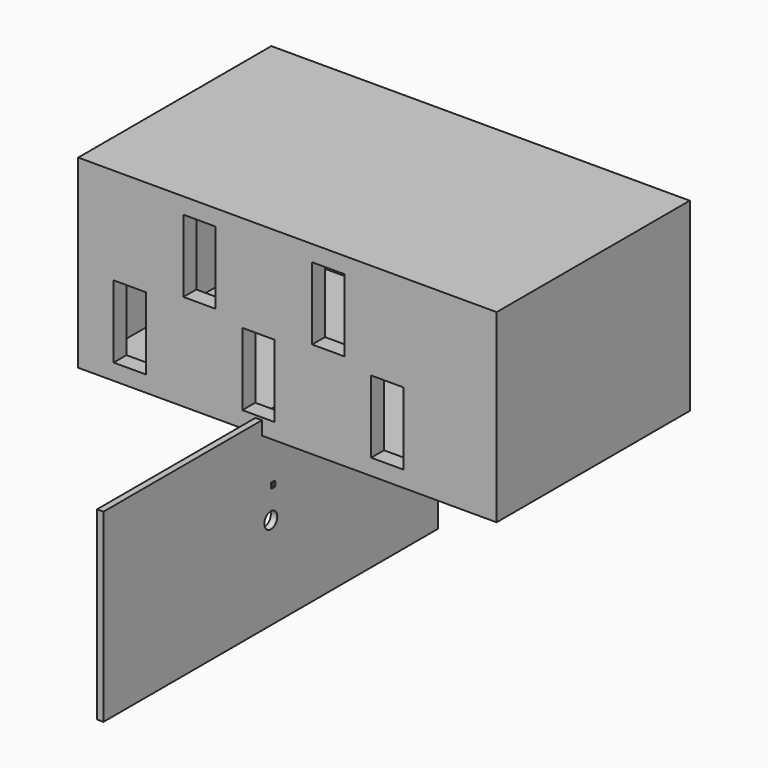
from build123d import *

# Parameters (mm, degrees)
F0_R      = 2.5
F1_DEPTH  = 3
F2_DEPTH  = 2.5
F3_W      = 260
F3_H      = 115
F4_DEPTH  = 10
F5_W      = 20
F5_H      = 45
F6_DEPTH  = 12.501
F7_W      = 260
F7_H      = 115
F7_W_2    = 252
F7_H_2    = 107
F8_DEPTH  = 150
F9_W      = 260
F9_H      = 115
F10_DEPTH = 4
F12_D     = 10
F14_DEPTH = 4
F15_W     = 50
F15_H     = 4
F16_DEPTH = 25
F17_D     = 30


with BuildPart() as f1:
    # F0 (on Front) → F1 (new body)
    with BuildSketch(Plane.XZ):
        with BuildLine():
            ThreePointArc((3.9321115141, -0.7192696016), (3.9810109696, -0.3611113113), (3.9973553406, 0))
            ThreePointArc((3.9973553406, 0), (3.9888435527, 0.2607236687), (3.9633444381, 0.5203369911))
            ThreePointArc((3.9633444381, 0.5203369911), (3.9626392257, 0.5256805935), (3.9619268087, 0.5310232401))
            ThreePointArc((3.9619268087, 0.5310232401), (3.8316179988, 1.1391019405), (3.6085715811, 1.719610672))
            ThreePointArc((3.6085715811, 1.719610672), (3.6062496203, 1.7244748172), (3.6039211029, 1.7293358272))
            ThreePointArc((3.6039211029, 1.7293358272), (3.2920834078, 2.2673854008), (2.9005665954, 2.750556879))
            ThreePointArc((2.9005665954, 2.750556879), (2.8968551759, 2.7544654307), (2.8931384896, 2.7583689745))
            ThreePointArc((2.8931384896, 2.7583689745), (2.4302967555, 3.1737213803), (1.9086339419, 3.5122594146))
            ThreePointArc((1.9086339419, 3.5122594146), (1.9038963633, 3.5148297764), (1.8991553232, 3.5173937479))
            ThreePointArc((1.8991553232, 3.5173937479), (1.3306157239, 3.7693913984), (0.7298708999, 3.9301575272))
            ThreePointArc((0.7298708999, 3.9301575272), (0.7245709094, 3.9311380943), (0.7192696016, 3.9321115141))
            ThreePointArc((0.7192696016, 3.9321115141), (0.1006847544, 3.9960871236), (-0.5203369911, 3.9633444381))
            ThreePointArc((-0.5203369911, 3.9633444381), (-0.5256805935, 3.9626392257), (-0.5310232401, 3.9619268087))
            ThreePointArc((-0.5310232401, 3.9619268087), (-1.1391019405, 3.8316179988), (-1.719610672, 3.6085715811))
            ThreePointArc((-1.719610672, 3.6085715811), (-1.7244748172, 3.6062496203), (-1.7293358272, 3.6039211029))
            ThreePointArc((-1.7293358272, 3.6039211029), (-2.2673854008, 3.2920834078), (-2.750556879, 2.9005665954))
            ThreePointArc((-2.750556879, 2.9005665954), (-2.7544654307, 2.8968551759), (-2.7583689745, 2.8931384896))
            ThreePointArc((-2.7583689745, 2.8931384896), (-3.1737213803, 2.4302967555), (-3.5122594146, 1.9086339419))
            ThreePointArc((-3.5122594146, 1.9086339419), (-3.5148297764, 1.9038963633), (-3.5173937479, 1.8991553232))
            ThreePointArc((-3.5173937479, 1.8991553232), (-3.7693913984, 1.3306157239), (-3.9301575272, 0.7298708999))
            ThreePointArc((-3.9301575272, 0.7298708999), (-3.9311380943, 0.7245709094), (-3.9321115141, 0.7192696016))
            ThreePointArc((-3.9321115141, 0.7192696016), (-3.9960871236, 0.1006847544), (-3.9633444381, -0.5203369911))
            ThreePointArc((-3.9633444381, -0.5203369911), (-3.9626392257, -0.5256805935), (-3.9619268087, -0.5310232401))
            ThreePointArc((-3.9619268087, -0.5310232401), (-3.8316179988, -1.1391019405), (-3.6085715811, -1.719610672))
            ThreePointArc((-3.6085715811, -1.719610672), (-3.6062496203, -1.7244748172), (-3.6039211029, -1.7293358272))
            ThreePointArc((-3.6039211029, -1.7293358272), (-3.2920834078, -2.2673854008), (-2.9005665954, -2.750556879))
            ThreePointArc((-2.9005665954, -2.750556879), (-2.8968551759, -2.7544654307), (-2.8931384896, -2.7583689745))
            ThreePointArc((-2.8931384896, -2.7583689745), (-2.4302967555, -3.1737213803), (-1.9086339419, -3.5122594146))
            ThreePointArc((-1.9086339419, -3.5122594146), (-1.9038963633, -3.5148297764), (-1.8991553232, -3.5173937479))
            ThreePointArc((-1.8991553232, -3.5173937479), (-1.3306157239, -3.7693913984), (-0.7298708999, -3.9301575272))
            ThreePointArc((-0.7298708999, -3.9301575272), (-0.7245709094, -3.9311380943), (-0.7192696016, -3.9321115141))
            ThreePointArc((-0.7192696016, -3.9321115141), (-0.1006847544, -3.9960871236), (0.5203369911, -3.9633444381))
            ThreePointArc((0.5203369911, -3.9633444381), (0.5256805935, -3.9626392257), (0.5310232401, -3.9619268087))
            ThreePointArc((0.5310232401, -3.9619268087), (1.1391019405, -3.8316179988), (1.719610672, -3.6085715811))
            ThreePointArc((1.719610672, -3.6085715811), (1.7244748172, -3.6062496203), (1.7293358272, -3.6039211029))
            ThreePointArc((1.7293358272, -3.6039211029), (2.2673854008, -3.2920834078), (2.750556879, -2.9005665954))
            ThreePointArc((2.750556879, -2.9005665954), (2.7544654307, -2.8968551759), (2.7583689745, -2.8931384896))
            ThreePointArc((2.7583689745, -2.8931384896), (3.1737213803, -2.4302967555), (3.5122594146, -1.9086339419))
            ThreePointArc((3.5122594146, -1.9086339419), (3.5148297764, -1.9038963633), (3.5173937479, -1.8991553232))
            ThreePointArc((3.5173937479, -1.8991553232), (3.7693913984, -1.3306157239), (3.9301575272, -0.7298708999))
            ThreePointArc((3.9301575272, -0.7298708999), (3.9311380943, -0.7245709094), (3.9321115141, -0.7192696016))
        make_face()
        Circle(F0_R, mode=Mode.SUBTRACT)
        with BuildLine():
            ThreePointArc((3.9633444381, 0.5203369911), (3.9888435527, 0.2607236687), (3.9973553406, 0))
            ThreePointArc((3.9973553406, 0), (3.9810109696, -0.3611113113), (3.9321115141, -0.7192696016))
            Line((3.9321115141, -0.7192696016), (4.73208086, -0.1192287316))
            Line((4.73208086, -0.1192287316), (3.9633444381, 0.5203369911))
        make_face()
        with BuildLine():
            ThreePointArc((3.6085715811, 1.719610672), (3.8316179988, 1.1391019405), (3.9619268087, 0.5310232401))
            Line((3.9619268087, 0.5310232401), (4.5373200419, 1.3489001424))
            Line((4.5373200419, 1.3489001424), (3.6085715811, 1.719610672))
        make_face()
        with BuildLine():
            Line((4.4636326333, -1.5756866666), (3.9301575272, -0.7298708999))
            ThreePointArc((3.9301575272, -0.7298708999), (3.7693913984, -1.3306157239), (3.5173937479, -1.8991553232))
            Line((3.5173937479, -1.8991553232), (4.4636326333, -1.5756866666))
        make_face()
        with BuildLine():
            ThreePointArc((2.9005665954, 2.750556879), (3.2920834078, 2.2673854008), (3.6039211029, 1.7293358272))
            Line((3.6039211029, 1.7293358272), (3.8984147246, 2.6849892721))
            Line((3.8984147246, 2.6849892721), (2.9005665954, 2.750556879))
        make_face()
        with BuildLine():
            Line((3.7582529444, -2.8779054123), (3.5122594146, -1.9086339419))
            ThreePointArc((3.5122594146, -1.9086339419), (3.1737213803, -2.4302967555), (2.7583689745, -2.8931384896))
            Line((2.7583689745, -2.8931384896), (3.7582529444, -2.8779054123))
        make_face()
        with BuildLine():
            ThreePointArc((1.9086339419, 3.5122594146), (2.4302967555, 3.1737213803), (2.8931384896, 2.7583689745))
            Line((2.8931384896, 2.7583689745), (2.8779054123, 3.7582529444))
            Line((2.8779054123, 3.7582529444), (1.9086339419, 3.5122594146))
        make_face()
        with BuildLine():
            Line((2.6849892721, -3.8984147246), (2.750556879, -2.9005665954))
            ThreePointArc((2.750556879, -2.9005665954), (2.2673854008, -3.2920834078), (1.7293358272, -3.6039211029))
            Line((1.7293358272, -3.6039211029), (2.6849892721, -3.8984147246))
        make_face()
        with BuildLine():
            ThreePointArc((0.7298708999, 3.9301575272), (1.3306157239, 3.7693913984), (1.8991553232, 3.5173937479))
            Line((1.8991553232, 3.5173937479), (1.5756866666, 4.4636326333))
            Line((1.5756866666, 4.4636326333), (0.7298708999, 3.9301575272))
        make_face()
        with BuildLine():
            Line((1.3489001424, -4.5373200419), (1.719610672, -3.6085715811))
            ThreePointArc((1.719610672, -3.6085715811), (1.1391019405, -3.8316179988), (0.5310232401, -3.9619268087))
            Line((0.5310232401, -3.9619268087), (1.3489001424, -4.5373200419))
        make_face()
        with BuildLine():
            ThreePointArc((-0.5203369911, 3.9633444381), (0.1006847544, 3.9960871236), (0.7192696016, 3.9321115141))
            Line((0.7192696016, 3.9321115141), (0.1192287316, 4.73208086))
            Line((0.1192287316, 4.73208086), (-0.5203369911, 3.9633444381))
        make_face()
        with BuildLine():
            Line((-0.1192287316, -4.73208086), (0.5203369911, -3.9633444381))
            ThreePointArc((0.5203369911, -3.9633444381), (-0.1006847544, -3.9960871236), (-0.7192696016, -3.9321115141))
            Line((-0.7192696016, -3.9321115141), (-0.1192287316, -4.73208086))
        make_face()
        with BuildLine():
            ThreePointArc((-1.719610672, 3.6085715811), (-1.1391019405, 3.8316179988), (-0.5310232401, 3.9619268087))
            Line((-0.5310232401, 3.9619268087), (-1.3489001424, 4.5373200419))
            Line((-1.3489001424, 4.5373200419), (-1.719610672, 3.6085715811))
        make_face()
        with BuildLine():
            Line((-1.5756866666, -4.4636326333), (-0.7298708999, -3.9301575272))
            ThreePointArc((-0.7298708999, -3.9301575272), (-1.3306157239, -3.7693913984), (-1.8991553232, -3.5173937479))
            Line((-1.8991553232, -3.5173937479), (-1.5756866666, -4.4636326333))
        make_face()
        with BuildLine():
            ThreePointArc((-2.750556879, 2.9005665954), (-2.2673854008, 3.2920834078), (-1.7293358272, 3.6039211029))
            Line((-1.7293358272, 3.6039211029), (-2.6849892721, 3.8984147246))
            Line((-2.6849892721, 3.8984147246), (-2.750556879, 2.9005665954))
        make_face()
        with BuildLine():
            Line((-2.8779054123, -3.7582529444), (-1.9086339419, -3.5122594146))
            ThreePointArc((-1.9086339419, -3.5122594146), (-2.4302967555, -3.1737213803), (-2.8931384896, -2.7583689745))
            Line((-2.8931384896, -2.7583689745), (-2.8779054123, -3.7582529444))
        make_face()
        with BuildLine():
            ThreePointArc((-3.5122594146, 1.9086339419), (-3.1737213803, 2.4302967555), (-2.7583689745, 2.8931384896))
            Line((-2.7583689745, 2.8931384896), (-3.7582529444, 2.8779054123))
            Line((-3.7582529444, 2.8779054123), (-3.5122594146, 1.9086339419))
        make_face()
        with BuildLine():
            Line((-3.8984147246, -2.6849892721), (-2.9005665954, -2.750556879))
            ThreePointArc((-2.9005665954, -2.750556879), (-3.2920834078, -2.2673854008), (-3.6039211029, -1.7293358272))
            Line((-3.6039211029, -1.7293358272), (-3.8984147246, -2.6849892721))
        make_face()
        with BuildLine():
            ThreePointArc((-3.9301575272, 0.7298708999), (-3.7693913984, 1.3306157239), (-3.5173937479, 1.8991553232))
            Line((-3.5173937479, 1.8991553232), (-4.4636326333, 1.5756866666))
            Line((-4.4636326333, 1.5756866666), (-3.9301575272, 0.7298708999))
        make_face()
        with BuildLine():
            Line((-4.5373200419, -1.3489001424), (-3.6085715811, -1.719610672))
            ThreePointArc((-3.6085715811, -1.719610672), (-3.8316179988, -1.1391019405), (-3.9619268087, -0.5310232401))
            Line((-3.9619268087, -0.5310232401), (-4.5373200419, -1.3489001424))
        make_face()
        with BuildLine():
            ThreePointArc((-3.9633444381, -0.5203369911), (-3.9960871236, 0.1006847544), (-3.9321115141, 0.7192696016))
            Line((-3.9321115141, 0.7192696016), (-4.73208086, 0.1192287316))
            Line((-4.73208086, 0.1192287316), (-3.9633444381, -0.5203369911))
        make_face()
    extrude(amount=F1_DEPTH)

    # F0 (on Front) → F2 (join)
    with BuildSketch(Plane.XZ):
        with BuildLine():
            ThreePointArc((3.9321115141, -0.7192696016), (3.9810109696, -0.3611113113), (3.9973553406, 0))
            ThreePointArc((3.9973553406, 0), (3.9888435527, 0.2607236687), (3.9633444381, 0.5203369911))
            ThreePointArc((3.9633444381, 0.5203369911), (3.9626392257, 0.5256805935), (3.9619268087, 0.5310232401))
            ThreePointArc((3.9619268087, 0.5310232401), (3.8316179988, 1.1391019405), (3.6085715811, 1.719610672))
            ThreePointArc((3.6085715811, 1.719610672), (3.6062496203, 1.7244748172), (3.6039211029, 1.7293358272))
            ThreePointArc((3.6039211029, 1.7293358272), (3.2920834078, 2.2673854008), (2.9005665954, 2.750556879))
            ThreePointArc((2.9005665954, 2.750556879), (2.8968551759, 2.7544654307), (2.8931384896, 2.7583689745))
            ThreePointArc((2.8931384896, 2.7583689745), (2.4302967555, 3.1737213803), (1.9086339419, 3.5122594146))
            ThreePointArc((1.9086339419, 3.5122594146), (1.9038963633, 3.5148297764), (1.8991553232, 3.5173937479))
            ThreePointArc((1.8991553232, 3.5173937479), (1.3306157239, 3.7693913984), (0.7298708999, 3.9301575272))
            ThreePointArc((0.7298708999, 3.9301575272), (0.7245709094, 3.9311380943), (0.7192696016, 3.9321115141))
            ThreePointArc((0.7192696016, 3.9321115141), (0.1006847544, 3.9960871236), (-0.5203369911, 3.9633444381))
            ThreePointArc((-0.5203369911, 3.9633444381), (-0.5256805935, 3.9626392257), (-0.5310232401, 3.9619268087))
            ThreePointArc((-0.5310232401, 3.9619268087), (-1.1391019405, 3.8316179988), (-1.719610672, 3.6085715811))
            ThreePointArc((-1.719610672, 3.6085715811), (-1.7244748172, 3.6062496203), (-1.7293358272, 3.6039211029))
            ThreePointArc((-1.7293358272, 3.6039211029), (-2.2673854008, 3.2920834078), (-2.750556879, 2.9005665954))
            ThreePointArc((-2.750556879, 2.9005665954), (-2.7544654307, 2.8968551759), (-2.7583689745, 2.8931384896))
            ThreePointArc((-2.7583689745, 2.8931384896), (-3.1737213803, 2.4302967555), (-3.5122594146, 1.9086339419))
            ThreePointArc((-3.5122594146, 1.9086339419), (-3.5148297764, 1.9038963633), (-3.5173937479, 1.8991553232))
            ThreePointArc((-3.5173937479, 1.8991553232), (-3.7693913984, 1.3306157239), (-3.9301575272, 0.7298708999))
            ThreePointArc((-3.9301575272, 0.7298708999), (-3.9311380943, 0.7245709094), (-3.9321115141, 0.7192696016))
            ThreePointArc((-3.9321115141, 0.7192696016), (-3.9960871236, 0.1006847544), (-3.9633444381, -0.5203369911))
            ThreePointArc((-3.9633444381, -0.5203369911), (-3.9626392257, -0.5256805935), (-3.9619268087, -0.5310232401))
            ThreePointArc((-3.9619268087, -0.5310232401), (-3.8316179988, -1.1391019405), (-3.6085715811, -1.719610672))
            ThreePointArc((-3.6085715811, -1.719610672), (-3.6062496203, -1.7244748172), (-3.6039211029, -1.7293358272))
            ThreePointArc((-3.6039211029, -1.7293358272), (-3.2920834078, -2.2673854008), (-2.9005665954, -2.750556879))
            ThreePointArc((-2.9005665954, -2.750556879), (-2.8968551759, -2.7544654307), (-2.8931384896, -2.7583689745))
            ThreePointArc((-2.8931384896, -2.7583689745), (-2.4302967555, -3.1737213803), (-1.9086339419, -3.5122594146))
            ThreePointArc((-1.9086339419, -3.5122594146), (-1.9038963633, -3.5148297764), (-1.8991553232, -3.5173937479))
            ThreePointArc((-1.8991553232, -3.5173937479), (-1.3306157239, -3.7693913984), (-0.7298708999, -3.9301575272))
            ThreePointArc((-0.7298708999, -3.9301575272), (-0.7245709094, -3.9311380943), (-0.7192696016, -3.9321115141))
            ThreePointArc((-0.7192696016, -3.9321115141), (-0.1006847544, -3.9960871236), (0.5203369911, -3.9633444381))
            ThreePointArc((0.5203369911, -3.9633444381), (0.5256805935, -3.9626392257), (0.5310232401, -3.9619268087))
            ThreePointArc((0.5310232401, -3.9619268087), (1.1391019405, -3.8316179988), (1.719610672, -3.6085715811))
            ThreePointArc((1.719610672, -3.6085715811), (1.7244748172, -3.6062496203), (1.7293358272, -3.6039211029))
            ThreePointArc((1.7293358272, -3.6039211029), (2.2673854008, -3.2920834078), (2.750556879, -2.9005665954))
            ThreePointArc((2.750556879, -2.9005665954), (2.7544654307, -2.8968551759), (2.7583689745, -2.8931384896))
            ThreePointArc((2.7583689745, -2.8931384896), (3.1737213803, -2.4302967555), (3.5122594146, -1.9086339419))
            ThreePointArc((3.5122594146, -1.9086339419), (3.5148297764, -1.9038963633), (3.5173937479, -1.8991553232))
            ThreePointArc((3.5173937479, -1.8991553232), (3.7693913984, -1.3306157239), (3.9301575272, -0.7298708999))
            ThreePointArc((3.9301575272, -0.7298708999), (3.9311380943, -0.7245709094), (3.9321115141, -0.7192696016))
        make_face()
        Circle(F0_R, mode=Mode.SUBTRACT)
    extrude(amount=-F2_DEPTH)


with BuildPart() as f4:
    # F3 (on Front) → F4 (new body)
    with BuildSketch(Plane.XZ):
        with Locations((19.8593487591, 87.6528974167)):
            Rectangle(F3_W, F3_H)
    extrude(amount=F4_DEPTH)

    # F5 (on face) → F6 (cut, through all)
    with BuildSketch(Plane.XZ.offset(10)):
        with Locations((-78.1406512409, 62.6528974167)):
            Rectangle(F5_W, F5_H)
        with Locations((1.8593487591, 62.6528974167)):
            Rectangle(F5_W, F5_H)
        with Locations((81.8593487591, 62.6528974167)):
            Rectangle(F5_W, F5_H)
        with Locations((45.2263766527, 112.6528974167)):
            Rectangle(F5_W, F5_H)
        with Locations((-34.7736233473, 112.6528974167)):
            Rectangle(F5_W, F5_H)
    extrude(amount=-F6_DEPTH, mode=Mode.SUBTRACT)

    # F7 (on face) → F8 (join)
    with BuildSketch(Plane.XZ.offset(10)):
        with Locations((19.8593487591, 87.6528974167)):
            Rectangle(F7_W, F7_H)
        with Locations((19.8593487591, 87.6528974167)):
            Rectangle(F7_W_2, F7_H_2, mode=Mode.SUBTRACT)
    extrude(amount=-F8_DEPTH)


with BuildPart() as f10:
    # F9 (on Right) → F10 (new body)
    with BuildSketch(Plane.YZ):
        with Locations((-3.0794394016, -18.9226838946)):
            Rectangle(F9_W, F9_H)
    extrude(amount=F10_DEPTH)

    # F12 (through all)
    with Locations(Plane(origin=(0, 0, 0), x_dir=(0, -1, 0), z_dir=(-1, 0, 0))):
        with Locations((3.0794394016, -18.9226838946)):
            Hole(F12_D / 2)


with BuildPart() as f14:
    # F13 (on Right) → F14 (new body)
    with BuildSketch(Plane.YZ):
        Polygon((217.5160512328, 33.5072924579), (217.5160512328, 37.5072924579), (167.5160512328, 37.5072924579), (167.5160512328, 33.5072924579), (167.5160512328, -65.4927075421), (167.5160512328, -69.4927075421), (217.5160512328, -69.4927075421), (217.5160512328, -65.4927075421), align=None)
    extrude(amount=F14_DEPTH)

    # F15 (on face) → F16 (join)
    with BuildSketch(Plane(origin=(0, 0, 0), x_dir=(0, -1, 0), z_dir=(-1, 0, 0))):
        with Locations((-192.5160512328, 35.5072924579)):
            Rectangle(F15_W, F15_H)
        with Locations((-192.5160512328, -67.4927075421)):
            Rectangle(F15_W, F15_H)
    extrude(amount=F16_DEPTH)

    # F17 (through all)
    with Locations(Plane(origin=(0, 0, 0), x_dir=(0, 1, 0), z_dir=(-1, 0, 0))):
        with Locations((192.5160512328, 15.9927075421)):
            Hole(F17_D / 2)


solid = Compound([f1.part, f4.part, f10.part, f14.part])
